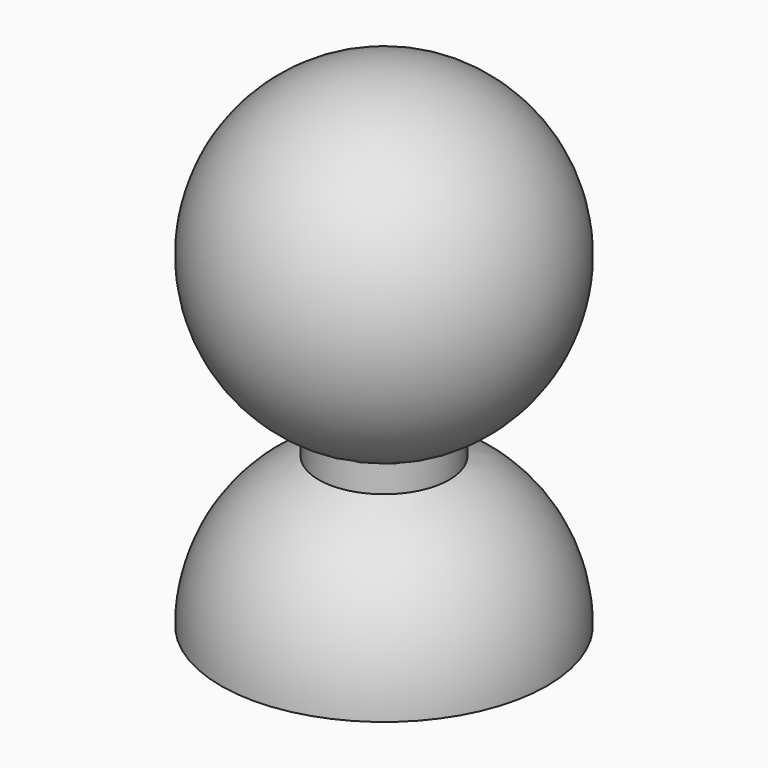
from build123d import *

# Parameters (mm, degrees)
F3_ANGLE_BACK = 90
F3_ANGLE      = 180
F4_R          = 10
F5_DEPTH      = 50


with BuildPart() as f1:
    # F0 (on Top) → F1 (revolve)
    with BuildSketch(Plane.XY):
        with BuildLine():
            Line((-25, 0), (25, 0))
            ThreePointArc((25, 0), (0, 25), (-25, 0))
        make_face()
    revolve(axis=Axis((0, 0, 0), (1, 0, 0)))

    # F2 (on Front) → F3 (revolve)
    with BuildSketch(Plane.XZ, mode=Mode.PRIVATE) as f3_sk:
        with BuildLine():
            Line((-25, -50), (25, -50))
            ThreePointArc((25, -50), (0, -25), (-25, -50))
        make_face()
    revolve(f3_sk.sketch.rotate(Axis((0, 0, -50), (1, 0, 0)), -F3_ANGLE_BACK), axis=Axis((0, 0, -50), (1, 0, 0)), revolution_arc=F3_ANGLE)

    # F4 (on Top) → F5 (join)
    with BuildSketch(Plane.XY):
        Circle(F4_R)
    extrude(amount=-F5_DEPTH)


solid = f1.part
